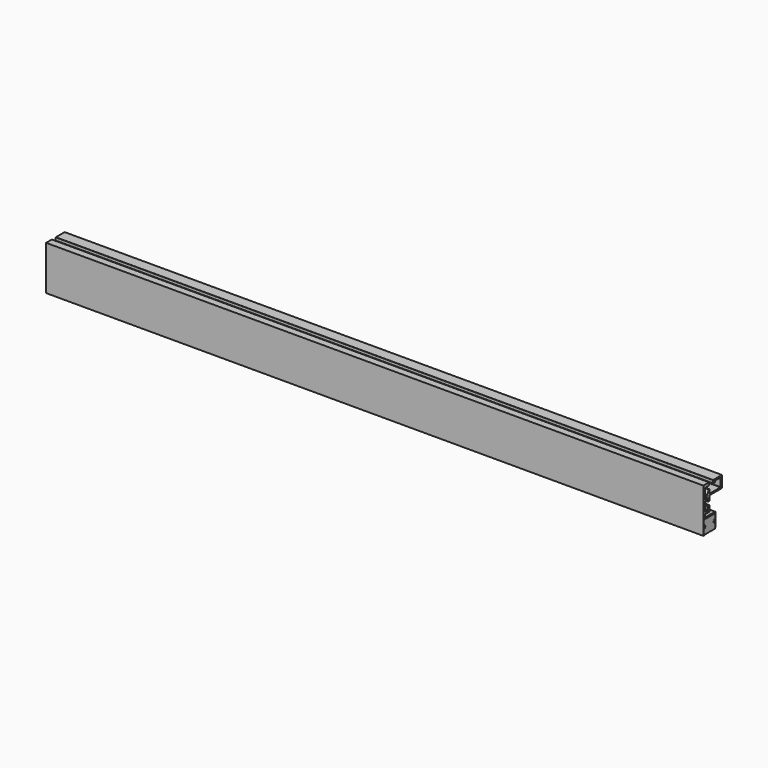
from build123d import *

# Parameters (mm, degrees)
F1_DEPTH = 600


with BuildPart() as f1:
    # F0 (on Right) → F1 (new body)
    with BuildSketch(Plane.YZ):
        Polygon((97.953237, 9.576591), (97.953237, 20.209017), (88.106465, 20.209017), (87.959187, 20.159924), (87.860829, 20.061739), (87.811737, 19.914461), (87.811737, 17.704432), (87.836541, 17.704432), (87.885806, 17.507717), (87.983819, 17.360612), (88.131269, 17.262254), (88.32764, 17.213162), (89.309664, 17.213162), (89.506207, 17.262254), (89.653657, 17.360612), (89.751842, 17.507717), (89.800935, 17.704432), (89.825395, 17.704432), (89.825395, 18.711261), (96.136121, 18.711261), (96.283571, 18.661997), (96.381584, 18.563811), (96.430677, 18.416361), (96.455309, 18.416361), (96.455309, 11.197164), (96.430677, 11.197164), (96.381584, 11.049886), (96.283571, 10.951701), (96.136121, 10.902263), (96.136121, 10.877976), (83.809397, 10.877976), (83.809397, 14.291204), (83.760132, 14.438482), (83.613027, 14.487747), (83.318299, 14.487747), (83.146388, 14.389389), (83.146388, 14.414022), (78.947506, 8.054203), (78.922874, 8.054203), (78.800056, 7.955846), (78.677238, 7.931385), (78.529961, 7.980478), (78.431775, 8.078663), (78.382683, 8.226113), (78.382683, 17.606075), (82.778108, 17.606075), (82.778108, 17.630707), (82.999283, 17.6798), (83.195481, 17.85171), (83.195481, 17.827078), (83.637487, 18.490086), (83.613027, 18.514719), (83.735672, 18.760354), (83.784937, 19.05491), (83.809397, 19.05491), (83.809397, 19.619733), (83.784937, 19.619733), (83.735672, 19.840736), (83.613027, 20.037279), (83.416656, 20.159924), (83.195481, 20.209017), (76.78657, 20.209017), (76.78657, -20.209016), (77.793399, -20.209016), (77.793399, -14.585931), (77.916045, -14.414021), (77.891584, -14.414021), (78.16168, -14.021108), (78.308958, -13.603562), (78.358223, -13.136924), (78.358223, -13.063371), (78.308958, -12.596733), (78.16168, -12.17936), (77.891584, -11.786274), (77.916045, -11.786274), (77.793399, -11.614708), (77.793399, -7.170018), (89.727382, -7.170018), (89.727382, -11.614708), (89.57976, -11.786274), (89.604564, -11.786274), (89.334469, -12.17936), (89.187019, -12.596733), (89.137926, -13.063371), (89.137926, -13.136924), (89.187019, -13.603562), (89.334469, -14.021108), (89.604564, -14.414021), (89.57976, -14.414021), (89.727382, -14.585931), (89.727382, -20.012645), (90.02211, -20.012645), (90.562129, -18.490085), (90.537669, -18.490085), (90.660314, -17.998987), (90.709579, -17.508061), (90.733867, -17.508061), (90.733867, -6.875291), (90.709579, -6.875291), (90.684774, -6.65446), (90.586589, -6.48255), (90.414851, -6.310639), (90.242768, -6.212454), (90.02211, -6.187994), (90.02211, -6.163534), (78.775596, -6.163534), (78.775596, -3.658949), (83.809397, -3.658949), (83.809397, 1.64512), (82.286837, 1.64512), (82.286837, -2.160677), (79.291327, -2.160677), (79.291327, 6.237087), (80.518986, 8.078663), (81.402912, 8.078663), (82.286837, 8.078663), (82.286837, 5.058348), (83.809397, 5.058348), (83.809397, 9.576591), align=None)
        Polygon((77.940505, -7.489207), (77.940505, -11.737354), (79.389512, -13.505377), (77.940505, -15.24894), (77.940505, -19.816103), (89.57976, -19.816103), (89.57976, -15.24894), (88.106465, -13.505377), (89.57976, -11.737354), (89.57976, -7.489207), align=None)
    extrude(amount=F1_DEPTH)


solid = f1.part
